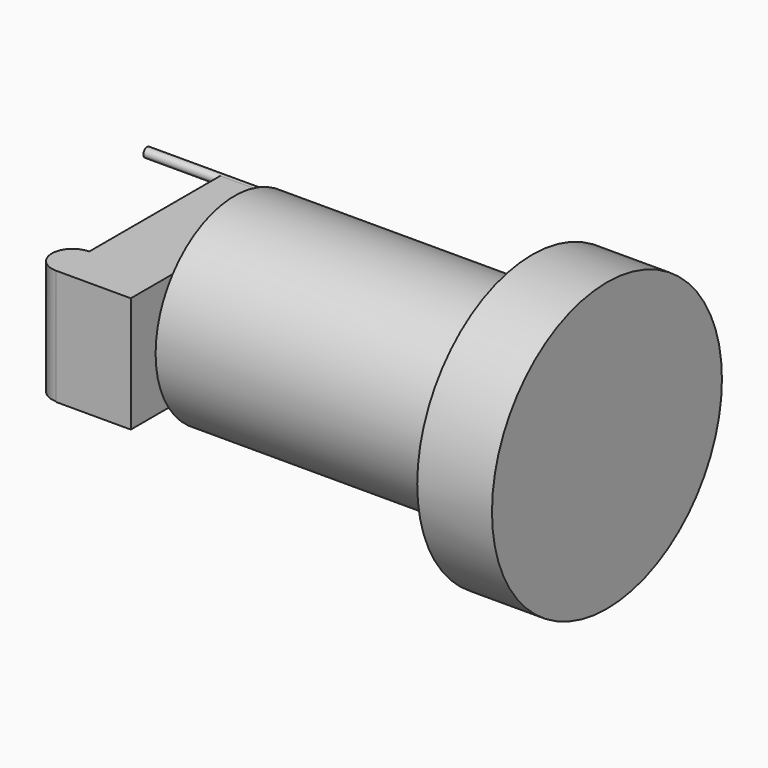
from build123d import *

# Parameters (mm, degrees)
F0_R      = 24.4143154864
F1_DEPTH  = 6.35
F2_R      = 18.4271469793
F3_DEPTH  = 2.54
F4_R      = 16.7830167103
F4_R_2    = 11.3536850354
F5_DEPTH  = 48.006
F7_DEPTH  = 12.7
F9_R      = 0.7955502835
F10_DEPTH = 25.4
F11_R     = 0.6602201081
F12_DEPTH = 25.4
F14_DEPTH = 2.54
F16_DEPTH = 17.018


with BuildPart() as f1:
    # F0 (on Right) → F1 (new body, symmetric)
    with BuildSketch(Plane.YZ):
        Circle(F0_R)
    extrude(amount=F1_DEPTH, both=True)

    # F2 (on face) → F3 (join)
    with BuildSketch(Plane(origin=(-6.35, 0, 0), x_dir=(0, -1, 0), z_dir=(-1, 0, 0))):
        Circle(F2_R)
    extrude(amount=F3_DEPTH)

    # F4 (on face) → F5 (join)
    with BuildSketch(Plane(origin=(-8.89, 0, 0), x_dir=(0, -1, 0), z_dir=(-1, 0, 0))):
        Circle(F4_R)
        Circle(F4_R_2, mode=Mode.SUBTRACT)
        Circle(F4_R_2)
    extrude(amount=F5_DEPTH)

    # F6 (on face) → F7 (join)
    with BuildSketch(Plane(origin=(-56.896, 0, 0), x_dir=(0, -1, 0), z_dir=(-1, 0, 0))):
        with BuildLine():
            Line((-14.0211542356, 9.2237131244), (-14.0211542356, -9.2237131244))
            Line((-14.0211542356, -9.2237131244), (14.0211542356, -9.2237131244))
            ThreePointArc((14.0211542356, -9.2237131244), (16.0777317389, -4.814165767), (16.7830167103, 0))
            ThreePointArc((16.7830167103, 0), (15.8513574313, 5.5139928803), (13.1598161847, 10.4157999158))
            Line((13.1598161847, 10.4157999158), (-13.1598161847, 10.4157999158))
            ThreePointArc((-13.1598161847, 10.4157999158), (-13.6035493889, 9.8291959958), (-14.0211542356, 9.2237131244))
        make_face()
        with BuildLine():
            ThreePointArc((16.7830167103, 0), (16.0777317389, -4.814165767), (14.0211542356, -9.2237131244))
            Line((14.0211542356, -9.2237131244), (22.0571234822, -9.2237131244))
            Line((22.0571234822, -9.2237131244), (22.0571234822, 10.4157999158))
            Line((22.0571234822, 10.4157999158), (13.1598161847, 10.4157999158))
            ThreePointArc((13.1598161847, 10.4157999158), (15.8513574313, 5.5139928803), (16.7830167103, 0))
        make_face()
    extrude(amount=F7_DEPTH)

    # F9 (on face) → F10 (join)
    with BuildSketch(Plane(origin=(-56.896, 0, 0), x_dir=(0, -1, 0), z_dir=(-1, 0, 0))):
        with Locations((-13.1598161847, 9.6820201725)):
            Circle(F9_R)
    extrude(amount=F10_DEPTH)

    # F11 (on face) → F12 (join)
    with BuildSketch(Plane(origin=(-56.896, 0, 0), x_dir=(0, -1, 0), z_dir=(-1, 0, 0))):
        with Locations((-14.0211542356, -9.2237131244)):
            Circle(F11_R)
    extrude(amount=F12_DEPTH)

    # F13 (on face) → F14 (join)
    with BuildSketch(Plane.XY.offset(10.4157999158)):
        with BuildLine():
            Line((-69.596, -22.0571234822), (-69.596, -15.0072947145))
            ThreePointArc((-69.596, -15.0072947145), (-73.1209143839, -18.5322090983), (-69.596, -22.0571234822))
        make_face()
    extrude(amount=-F14_DEPTH)

    # F16 (add): a face of the model
    f16_faces = [f1.faces().sort_by_distance(p)[0] for p in [
        (-71.0920201285, -18.5322090983, 7.8757999158),
    ]]
    extrude(f16_faces, amount=F16_DEPTH)


solid = f1.part
